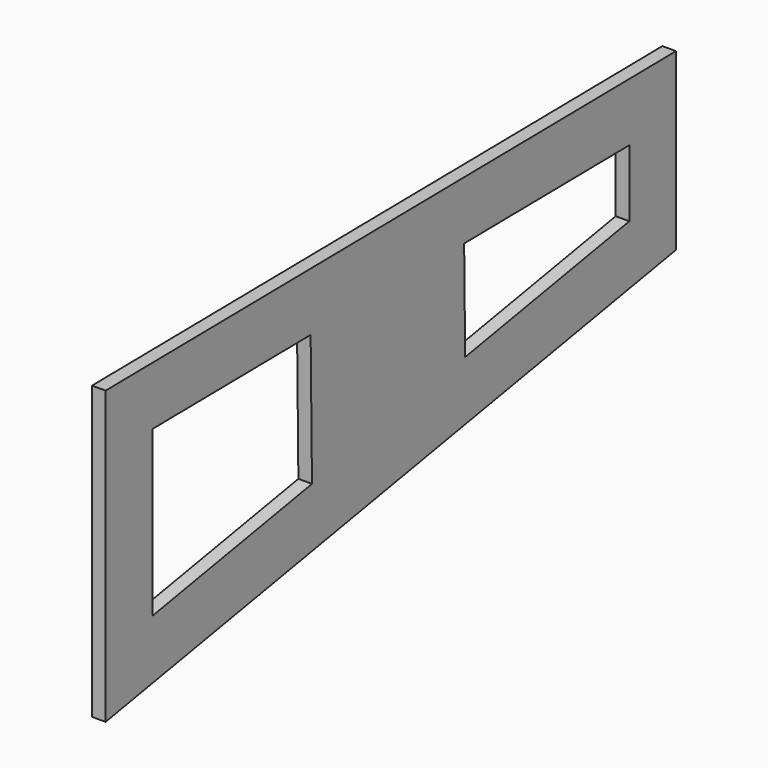
from build123d import *

# Parameters (mm, degrees)
F1_DEPTH = 7


with BuildPart() as f1:
    # F0 (on Right) → F1 (new body)
    with BuildSketch(Plane.YZ):
        Polygon((599.109616, 110.551124), (232.423452, 105.89446), (232.423452, -44.10554), (599.109616, 20.551124), align=None)
        Polygon((262.423452, -8.352933), (262.423452, 76.27302), (364.232124, 77.565921), (365.093333, 9.750538), align=None, mode=Mode.SUBTRACT)
        Polygon((462.911965, 78.819088), (569.109616, 80.167725), (569.109616, 45.724113), (463.56858, 27.114381), align=None, mode=Mode.SUBTRACT)
    extrude(amount=F1_DEPTH)


solid = f1.part
